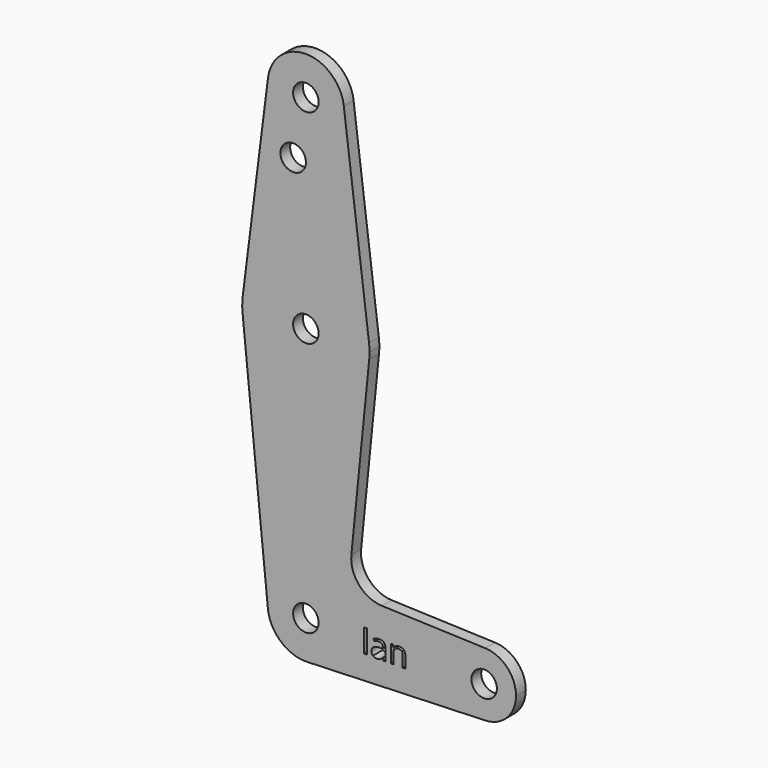
from build123d import *

# Parameters (mm, degrees)
F0_R     = 3.175
F0_W     = 0.6713387143
F0_H     = 5.7765472419
F1_DEPTH = 3.048


with BuildPart() as f1:
    # F0 (on Front) → F1 (new body)
    with BuildSketch(Plane.XZ):
        with BuildLine():
            ThreePointArc((0.3401785714, -9.5189234444), (6.8544082857, -6.6138273378), (9.525, 0))
            ThreePointArc((9.525, 0), (-0.4768479324, 9.5130563464), (-9.4772553384, -0.9525))
            ThreePointArc((-9.4772553384, -0.9525), (-6.2623833816, -7.1769199091), (0.3401785714, -9.5189234444))
        make_face()
        Circle(F0_R, mode=Mode.SUBTRACT)
        with BuildLine():
            ThreePointArc((-9.4772553384, -0.9525), (-0.4768479324, 9.5130563464), (9.525, 0))
            ThreePointArc((9.525, 0), (6.8544082857, -6.6138273378), (0.3401785714, -9.5189234444))
            Line((0.3401785714, -9.5189234444), (44.7334821429, -7.9324362036))
            ThreePointArc((44.7334821429, -7.9324362036), (36.5125, 0), (44.7334821429, 7.9324362036))
            Line((44.7334821429, 7.9324362036), (18.9676000005, 8.8532337108))
            ThreePointArc((18.9676000005, 8.8532337108), (13.2611998974, 11.5713591498), (11.3411865923, 17.5933818124))
            Line((11.3411865923, 17.5933818124), (15.7954255641, 61.9125))
            ThreePointArc((15.7954255641, 61.9125), (0, 47.625), (-15.7954255641, 61.9125))
            Line((-15.7954255641, 61.9125), (-9.4772553384, -0.9525))
        make_face()
        with Locations((14.8607160592, -0.1777730082)):
            Rectangle(F0_W, F0_H, mode=Mode.SUBTRACT)
        with BuildLine():
            Line((19.8312775565, -3.0660466291), (19.3445253814, -3.0660466291))
            Line((19.3445253814, -3.0660466291), (19.2143033709, -2.4490724435))
            Line((19.2143033709, -2.4490724435), (19.1826960868, -2.4490724435))
            add(Edge.make_bspline(
                [(19.1826960868, -2.4490724435), (18.8590374977, -2.8561742627), (18.5372753455, -3.0009356239)],
                knots=[0, 0, 0, 1, 1, 1], degree=2))
            add(Edge.make_bspline(
                [(18.5372753455, -3.0009356239), (18.2155131934, -3.145696985), (17.7325538924, -3.145696985)],
                knots=[0, 0, 0, 1, 1, 1], degree=2))
            add(Edge.make_bspline(
                [(17.7325538924, -3.145696985), (17.0890295881, -3.145696985), (16.7236493839, -2.8131883563)],
                knots=[0, 0, 0, 1, 1, 1], degree=2))
            add(Edge.make_bspline(
                [(16.7236493839, -2.8131883563), (16.3582691798, -2.4806797276), (16.3582691798, -1.8687627074)],
                knots=[0, 0, 0, 1, 1, 1], degree=2))
            add(Edge.make_bspline(
                [(16.3582691798, -1.8687627074), (16.3582691798, -0.557692563), (18.4557285526, -0.4944779948)],
                knots=[0, 0, 0, 1, 1, 1], degree=2))
            Line((18.4557285526, -0.4944779948), (19.190281835, -0.4704564589))
            Line((19.190281835, -0.4704564589), (19.190281835, -0.2011623984))
            add(Edge.make_bspline(
                [(19.190281835, -0.2011623984), (19.190281835, 0.3083470213), (18.971559429, 0.5510909631)],
                knots=[0, 0, 0, 1, 1, 1], degree=2))
            add(Edge.make_bspline(
                [(18.971559429, 0.5510909631), (18.7528370231, 0.793834905), (18.2698777221, 0.793834905)],
                knots=[0, 0, 0, 1, 1, 1], degree=2))
            add(Edge.make_bspline(
                [(18.2698777221, 0.793834905), (17.7287610183, 0.793834905), (17.0460436818, 0.4625905677)],
                knots=[0, 0, 0, 1, 1, 1], degree=2))
            Line((17.0460436818, 0.4625905677), (16.8437570635, 0.9645142392))
            add(Edge.make_bspline(
                [(16.8437570635, 0.9645142392), (17.1636227786, 1.137722156), (17.5448066248, 1.2363368824)],
                knots=[0, 0, 0, 1, 1, 1], degree=2))
            add(Edge.make_bspline(
                [(17.5448066248, 1.2363368824), (17.9259904711, 1.3349516088), (18.3103350457, 1.3349516088)],
                knots=[0, 0, 0, 1, 1, 1], degree=2))
            add(Edge.make_bspline(
                [(18.3103350457, 1.3349516088), (19.0840813604, 1.3349516088), (19.4576794585, 0.9916965035)],
                knots=[0, 0, 0, 1, 1, 1], degree=2))
            add(Edge.make_bspline(
                [(19.4576794585, 0.9916965035), (19.8312775565, 0.6484413982), (19.8312775565, -0.1101334202)],
                knots=[0, 0, 0, 1, 1, 1], degree=2))
            Line((19.8312775565, -0.1101334202), (19.8312775565, -3.0660466291))
        make_face(mode=Mode.SUBTRACT)
        with BuildLine():
            Line((24.8012069082, -3.0660466291), (24.1450396903, -3.0660466291))
            Line((24.1450396903, -3.0660466291), (24.1450396903, -0.2643769666))
            add(Edge.make_bspline(
                [(24.1450396903, -0.2643769666), (24.1450396903, 0.2640968235), (23.9041921855, 0.5251729902)],
                knots=[0, 0, 0, 1, 1, 1], degree=2))
            add(Edge.make_bspline(
                [(23.9041921855, 0.5251729902), (23.6633446806, 0.7862491568), (23.1487780955, 0.7862491568)],
                knots=[0, 0, 0, 1, 1, 1], degree=2))
            add(Edge.make_bspline(
                [(23.1487780955, 0.7862491568), (22.4698536331, 0.7862491568), (22.1537807921, 0.4189725156)],
                knots=[0, 0, 0, 1, 1, 1], degree=2))
            add(Edge.make_bspline(
                [(22.1537807921, 0.4189725156), (21.8377079511, 0.0516958744), (21.8377079511, -0.7941150481)],
                knots=[0, 0, 0, 1, 1, 1], degree=2))
            Line((21.8377079511, -0.7941150481), (21.8377079511, -3.0660466291))
            Line((21.8377079511, -3.0660466291), (21.1815407332, -3.0660466291))
            Line((21.1815407332, -3.0660466291), (21.1815407332, 1.2641512924))
            Line((21.1815407332, 1.2641512924), (21.7150716888, 1.2641512924))
            Line((21.7150716888, 1.2641512924), (21.8212721634, 0.6711986427))
            Line((21.8212721634, 0.6711986427), (21.8528794475, 0.6711986427))
            add(Edge.make_bspline(
                [(21.8528794475, 0.6711986427), (22.0551660657, 0.9910643578), (22.4186498328, 1.1674330031)],
                knots=[0, 0, 0, 1, 1, 1], degree=2))
            add(Edge.make_bspline(
                [(22.4186498328, 1.1674330031), (22.7821336, 1.3438016483), (23.2284284515, 1.3438016483)],
                knots=[0, 0, 0, 1, 1, 1], degree=2))
            add(Edge.make_bspline(
                [(23.2284284515, 1.3438016483), (24.0110248057, 1.3438016483), (24.406115857, 0.9664106762)],
                knots=[0, 0, 0, 1, 1, 1], degree=2))
            add(Edge.make_bspline(
                [(24.406115857, 0.9664106762), (24.8012069082, 0.5890197041), (24.8012069082, -0.241619722)],
                knots=[0, 0, 0, 1, 1, 1], degree=2))
            Line((24.8012069082, -0.241619722), (24.8012069082, -3.0660466291))
        make_face(mode=Mode.SUBTRACT)
        with BuildLine():
            ThreePointArc((-15.7504882737, 65.484375), (-15.8737438155, 63.6997054867), (-15.7954255641, 61.9125))
            ThreePointArc((-15.7954255641, 61.9125), (0, 47.625), (15.7954255641, 61.9125))
            ThreePointArc((15.7954255641, 61.9125), (15.8550939106, 62.7052534459), (15.875, 63.5))
            ThreePointArc((15.875, 63.5), (15.8438414904, 64.4941387366), (15.7504882737, 65.484375))
            ThreePointArc((15.7504882737, 65.484375), (0, 79.375), (-15.7504882737, 65.484375))
        make_face()
        with Locations((0, 63.5)):
            Circle(F0_R, mode=Mode.SUBTRACT)
        with BuildLine():
            ThreePointArc((44.7334821429, 7.9324362036), (36.5125, 0), (44.7334821429, -7.9324362036))
            ThreePointArc((44.7334821429, -7.9324362036), (50.1620069047, -5.5115227815), (52.3875, 0))
            ThreePointArc((52.3875, 0), (50.1620069047, 5.5115227815), (44.7334821429, 7.9324362036))
        make_face()
        with Locations((44.45, 0)):
            Circle(F0_R, mode=Mode.SUBTRACT)
        with BuildLine():
            Line((-9.4502929642, 115.490625), (-15.7504882737, 65.484375))
            ThreePointArc((-15.7504882737, 65.484375), (0, 79.375), (15.7504882737, 65.484375))
            Line((15.7504882737, 65.484375), (9.4502929642, 115.490625))
            ThreePointArc((9.4502929642, 115.490625), (9.5063048942, 114.896483242), (9.525, 114.3))
            ThreePointArc((9.525, 114.3), (-0.596483242, 104.7936951058), (-9.4502929642, 115.490625))
        make_face()
        with Locations((-3.175, 100.0252)):
            Circle(F0_R, mode=Mode.SUBTRACT)
        with BuildLine():
            ThreePointArc((9.4502929642, 115.490625), (0, 123.825), (-9.4502929642, 115.490625))
            ThreePointArc((-9.4502929642, 115.490625), (-0.596483242, 104.7936951058), (9.525, 114.3))
            ThreePointArc((9.525, 114.3), (9.5063048942, 114.896483242), (9.4502929642, 115.490625))
        make_face()
        with Locations((0, 114.3)):
            Circle(F0_R, mode=Mode.SUBTRACT)
    extrude(amount=F1_DEPTH)


solid = f1.part
